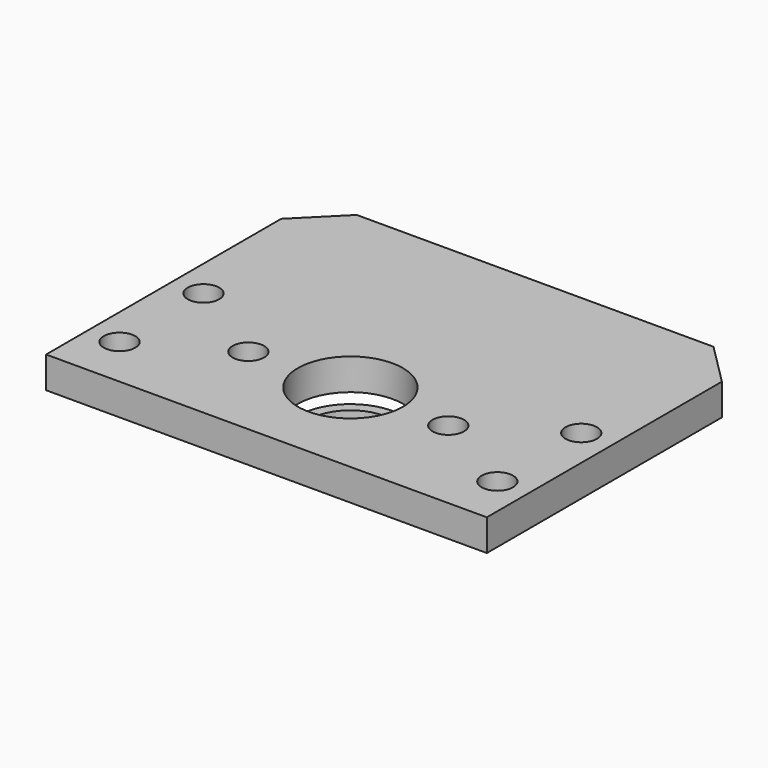
from build123d import *

# Parameters (mm, degrees)
TUBE066_R                   = 5
TUBE066_R_2                 = 4
TUBE066_DEPTH               = 1
CYLINDER1691_R              = 1.5
CYLINDER1691_DEPTH          = 20
CYLINDER1688_R              = 1.5
CYLINDER1688_DEPTH          = 20
COMPOUND839_ROLL_ANGLE      = 90
COMPOUND839_PLACEMENT_ANGLE = 90
CYLINDER1679_R              = 1.5
CYLINDER1679_DEPTH          = 60
CYLINDER1686_R              = 1.5
CYLINDER1686_DEPTH          = 60
CYLINDER1680_R              = 1.5
CYLINDER1680_DEPTH          = 60
CYLINDER1684_R              = 1.5
CYLINDER1684_DEPTH          = 60
CYLINDER1678_R              = 5
CYLINDER1678_DEPTH          = 4
BOX658_W                    = 42
BOX658_H                    = 32
BOX658_DEPTH                = 3
CHAMFER052_SIZE             = 4
CHAMFER051_SIZE             = 2


with BuildPart() as tube066:
    # Tube066 → Tube066 (new body)
    with BuildSketch(Plane(origin=(0, 90, -54), x_dir=(1, 0, 0), z_dir=(0, 0, 1))):
        Circle(TUBE066_R)
        Circle(TUBE066_R_2, mode=Mode.SUBTRACT)
    extrude(amount=TUBE066_DEPTH)


with BuildPart() as obj1:
    # Cylinder1691 → Cylinder1691 (new body)
    with BuildSketch(Plane(origin=(15.75, 114, 58.525), x_dir=(-1, 0, 0), z_dir=(0, 1, 0))):
        Circle(CYLINDER1691_R)
    extrude(amount=CYLINDER1691_DEPTH)


with BuildPart() as compound843:
    # Cylinder1688 → Cylinder1688 (new body)
    with BuildSketch(Plane(origin=(15.75, 114, 39.475), x_dir=(-1, 0, 0), z_dir=(0, 1, 0))):
        Circle(CYLINDER1688_R)
    extrude(amount=CYLINDER1688_DEPTH)

    # Compound839: union obj1
    add(obj1.part)


with BuildPart() as compound843_1:
    # Compound839 roll: moved
    add(compound843.part.rotate(Axis((0, 0, 0), (1, 0, 0)), COMPOUND839_ROLL_ANGLE))


with BuildPart() as compound843_2:
    # Compound839 placement: moved
    add(compound843_1.part.moved(Location((-49, 0, -96))).rotate(Axis((-49, 0, -96), (0, 0, 1)), COMPOUND839_PLACEMENT_ANGLE))


with BuildPart() as compound843_3:
    # Compound843 placement: moved
    add(compound843_2.part.moved(Location((0, 74, -80))))


with BuildPart() as obj2:
    # Cylinder1679 → Cylinder1679 (new body)
    with BuildSketch(Plane(origin=(18, 85, -57), x_dir=(1, 0, 0), z_dir=(0, 0, 1))):
        Circle(CYLINDER1679_R)
    extrude(amount=CYLINDER1679_DEPTH)


with BuildPart() as obj3:
    # Cylinder1686 → Cylinder1686 (new body)
    with BuildSketch(Plane(origin=(-18, 85, -57), x_dir=(1, 0, 0), z_dir=(0, 0, 1))):
        Circle(CYLINDER1686_R)
    extrude(amount=CYLINDER1686_DEPTH)


with BuildPart() as obj4:
    # Cylinder1680 → Cylinder1680 (new body)
    with BuildSketch(Plane(origin=(-18, 95, -57), x_dir=(1, 0, 0), z_dir=(0, 0, 1))):
        Circle(CYLINDER1680_R)
    extrude(amount=CYLINDER1680_DEPTH)


with BuildPart() as compound835:
    # Cylinder1684 → Cylinder1684 (new body)
    with BuildSketch(Plane(origin=(18, 95, -57), x_dir=(1, 0, 0), z_dir=(0, 0, 1))):
        Circle(CYLINDER1684_R)
    extrude(amount=CYLINDER1684_DEPTH)

    # Compound835: union obj2, obj3, obj4
    add(obj2.part)
    add(obj3.part)
    add(obj4.part)


with BuildPart() as obj5:
    # Cylinder1678 → Cylinder1678 (new body)
    with BuildSketch(Plane(origin=(0, 90, -53), x_dir=(1, 0, 0), z_dir=(0, 0, 1))):
        Circle(CYLINDER1678_R)
    extrude(amount=CYLINDER1678_DEPTH)


with BuildPart() as chamfer051:
    # Box658 → Box658 (new body)
    with BuildSketch(Plane(origin=(-21, 80, -52), x_dir=(1, 0, 0), z_dir=(0, 0, 1))):
        with Locations((21, 16)):
            Rectangle(BOX658_W, BOX658_H)
    extrude(amount=BOX658_DEPTH)

    # Cut336: cut obj5
    add(obj5.part, mode=Mode.SUBTRACT)

    # Cut343: cut Compound835
    add(compound835.part, mode=Mode.SUBTRACT)

    # Cut342: cut Compound843
    add(compound843_3.part, mode=Mode.SUBTRACT)

    # Compound838: union Tube066
    add(tube066.part)

    # Chamfer052
    chamfer052_edges = [chamfer051.edges().sort_by_distance(p)[0] for p in [
        (-21, 112, -50.5),
        (21, 112, -50.5),
    ]]
    chamfer(chamfer052_edges, length=CHAMFER052_SIZE)

    # Chamfer051
    chamfer051_edges = [chamfer051.edges().sort_by_distance(p)[0] for p in [
        (0, 112, -52),
    ]]
    chamfer(chamfer051_edges, length=CHAMFER051_SIZE)


solid = chamfer051.part
